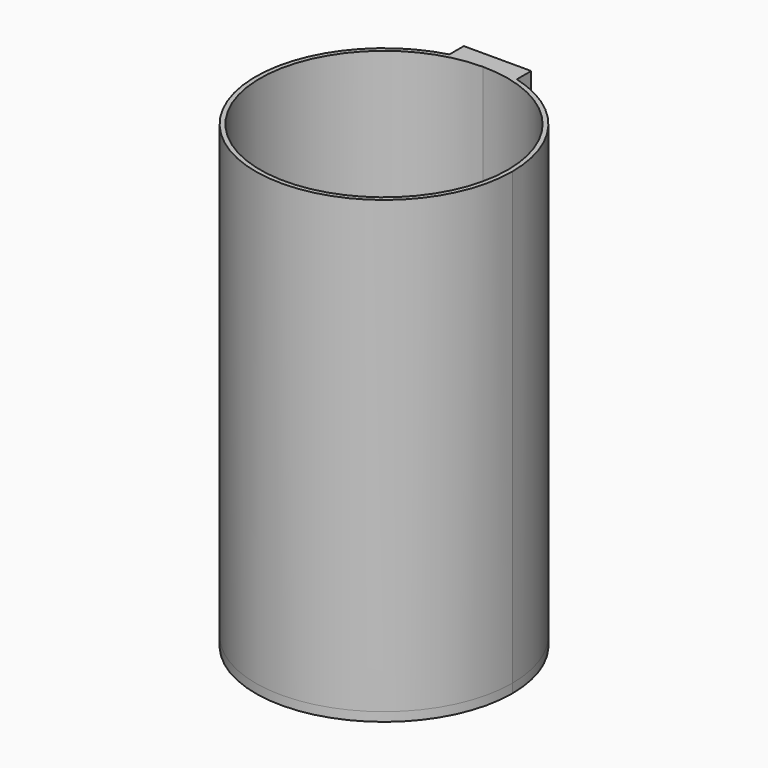
from build123d import *

# Parameters (mm, degrees)
F1_DEPTH = 2
F2_DEPTH = 100
F4_DEPTH = 2


with BuildPart() as f1:
    # F0 (on Top) → F1 (new body)
    with BuildSketch(Plane.XY):
        with BuildLine():
            Line((7.4833147735, 27.5), (0, 27.5))
            Line((0, 27.5), (-7.4833147735, 27.5))
            ThreePointArc((-7.4833147735, 27.5), (-17.3057147924, -22.6442539184), (28.5, 0))
            ThreePointArc((28.5, 0), (22.6442539184, 17.3057147924), (7.4833147735, 27.5))
        make_face()
        with BuildLine():
            ThreePointArc((0, 27.5), (19.4454364826, 19.4454364826), (27.5, 0))
            ThreePointArc((27.5, 0), (-19.4454364826, -19.4454364826), (0, 27.5))
        make_face(mode=Mode.SUBTRACT)
        with BuildLine():
            ThreePointArc((0, 27.5), (-19.4454364826, -19.4454364826), (27.5, 0))
            ThreePointArc((27.5, 0), (19.4454364826, 19.4454364826), (0, 27.5))
        make_face()
        with BuildLine():
            Line((-7.4833147735, 31.5), (-7.4833147735, 27.5))
            ThreePointArc((-7.4833147735, 27.5), (0, 28.5), (7.4833147735, 27.5))
            Line((7.4833147735, 27.5), (7.4833147735, 31.5))
            Line((7.4833147735, 31.5), (-7.4833147735, 31.5))
        make_face()
        with BuildLine():
            Line((-7.4833147735, 27.5), (0, 27.5))
            Line((0, 27.5), (7.4833147735, 27.5))
            ThreePointArc((7.4833147735, 27.5), (0, 28.5), (-7.4833147735, 27.5))
        make_face()
    extrude(amount=-F1_DEPTH)

    # F3 (on Top) → F4 (cut)
    with BuildSketch(Plane.XY):
        with BuildLine():
            Line((-3, 0), (-3, 27.3358738657))
            ThreePointArc((-3, 27.3358738657), (-4.5068947909, 27.1281753781), (-6, 26.8374738006))
            Line((-6, 26.8374738006), (-6, 0))
            Line((-6, 0), (-3, 0))
        make_face()
        with BuildLine():
            ThreePointArc((-6, -26.8374738006), (-4.5068947909, -27.1281753781), (-3, -27.3358738657))
            Line((-3, -27.3358738657), (-3, 0))
            Line((-3, 0), (-6, 0))
            Line((-6, 0), (-6, -26.8374738006))
        make_face()
        with BuildLine():
            ThreePointArc((-12, -24.7436860633), (-10.5183444867, -25.4089438832), (-9, -25.9855729204))
            Line((-9, -25.9855729204), (-9, 0))
            Line((-9, 0), (-12, 0))
            Line((-12, 0), (-12, -24.7436860633))
        make_face()
        with BuildLine():
            Line((-9, 0), (-9, 25.9855729204))
            ThreePointArc((-9, 25.9855729204), (-10.5183444867, 25.4089438832), (-12, 24.7436860633))
            Line((-12, 24.7436860633), (-12, 0))
            Line((-12, 0), (-9, 0))
        make_face()
        with BuildLine():
            Line((-15, 0), (-15, 23.0488611432))
            ThreePointArc((-15, 23.0488611432), (-16.5385885131, 21.9710056664), (-18, 20.7906228863))
            Line((-18, 20.7906228863), (-18, 0))
            Line((-18, 0), (-15, 0))
        make_face()
        with BuildLine():
            ThreePointArc((-18, -20.7906228863), (-16.5385885131, -21.9710056664), (-15, -23.0488611432))
            Line((-15, -23.0488611432), (-15, 0))
            Line((-15, 0), (-18, 0))
            Line((-18, 0), (-18, -20.7906228863))
        make_face()
        with BuildLine():
            ThreePointArc((-24, -13.4257215821), (-22.6038994641, -15.6624943422), (-21, -17.7552809046))
            Line((-21, -17.7552809046), (-21, 0))
            Line((-21, 0), (-24, 0))
            Line((-24, 0), (-24, -13.4257215821))
        make_face()
        with BuildLine():
            Line((-21, 0), (-21, 17.7552809046))
            ThreePointArc((-21, 17.7552809046), (-22.6038994641, 15.6624943422), (-24, 13.4257215821))
            Line((-24, 13.4257215821), (-24, 0))
            Line((-24, 0), (-21, 0))
        make_face()
        with BuildLine():
            Line((6, 0), (6, 26.8374738006))
            ThreePointArc((6, 26.8374738006), (4.5068947909, 27.1281753781), (3, 27.3358738657))
            Line((3, 27.3358738657), (3, 0))
            Line((3, 0), (6, 0))
        make_face()
        with BuildLine():
            ThreePointArc((3, -27.3358738657), (4.5068947909, -27.1281753781), (6, -26.8374738006))
            Line((6, -26.8374738006), (6, 0))
            Line((6, 0), (3, 0))
            Line((3, 0), (3, -27.3358738657))
        make_face()
        with BuildLine():
            ThreePointArc((9, -25.9855729204), (10.5183444867, -25.4089438832), (12, -24.7436860633))
            Line((12, -24.7436860633), (12, 0))
            Line((12, 0), (9, 0))
            Line((9, 0), (9, -25.9855729204))
        make_face()
        with BuildLine():
            Line((12, 0), (12, 24.7436860633))
            ThreePointArc((12, 24.7436860633), (10.5183444867, 25.4089438832), (9, 25.9855729204))
            Line((9, 25.9855729204), (9, 0))
            Line((9, 0), (12, 0))
        make_face()
        with BuildLine():
            Line((18, 0), (18, 20.7906228863))
            ThreePointArc((18, 20.7906228863), (16.5385885131, 21.9710056664), (15, 23.0488611432))
            Line((15, 23.0488611432), (15, 0))
            Line((15, 0), (18, 0))
        make_face()
        with BuildLine():
            ThreePointArc((15, -23.0488611432), (16.5385885131, -21.9710056664), (18, -20.7906228863))
            Line((18, -20.7906228863), (18, 0))
            Line((18, 0), (15, 0))
            Line((15, 0), (15, -23.0488611432))
        make_face()
        with BuildLine():
            Line((24, 0), (24, 13.4257215821))
            ThreePointArc((24, 13.4257215821), (22.6038994641, 15.6624943422), (21, 17.7552809046))
            Line((21, 17.7552809046), (21, 0))
            Line((21, 0), (24, 0))
        make_face()
        with BuildLine():
            ThreePointArc((21, -17.7552809046), (22.6038994641, -15.6624943422), (24, -13.4257215821))
            Line((24, -13.4257215821), (24, 0))
            Line((24, 0), (21, 0))
            Line((21, 0), (21, -17.7552809046))
        make_face()
    extrude(amount=-F4_DEPTH, mode=Mode.SUBTRACT)


with BuildPart() as f2:
    # F0 (on Top) → F2 (new body)
    with BuildSketch(Plane.XY):
        with BuildLine():
            Line((7.4833147735, 27.5), (0, 27.5))
            Line((0, 27.5), (-7.4833147735, 27.5))
            ThreePointArc((-7.4833147735, 27.5), (-17.3057147924, -22.6442539184), (28.5, 0))
            ThreePointArc((28.5, 0), (22.6442539184, 17.3057147924), (7.4833147735, 27.5))
        make_face()
        with BuildLine():
            ThreePointArc((0, 27.5), (19.4454364826, 19.4454364826), (27.5, 0))
            ThreePointArc((27.5, 0), (-19.4454364826, -19.4454364826), (0, 27.5))
        make_face(mode=Mode.SUBTRACT)
        with BuildLine():
            Line((-7.4833147735, 27.5), (0, 27.5))
            Line((0, 27.5), (7.4833147735, 27.5))
            ThreePointArc((7.4833147735, 27.5), (0, 28.5), (-7.4833147735, 27.5))
        make_face()
        with BuildLine():
            Line((-7.4833147735, 31.5), (-7.4833147735, 27.5))
            ThreePointArc((-7.4833147735, 27.5), (0, 28.5), (7.4833147735, 27.5))
            Line((7.4833147735, 27.5), (7.4833147735, 31.5))
            Line((7.4833147735, 31.5), (-7.4833147735, 31.5))
        make_face()
    extrude(amount=F2_DEPTH)


solid = Compound([f1.part, f2.part])
